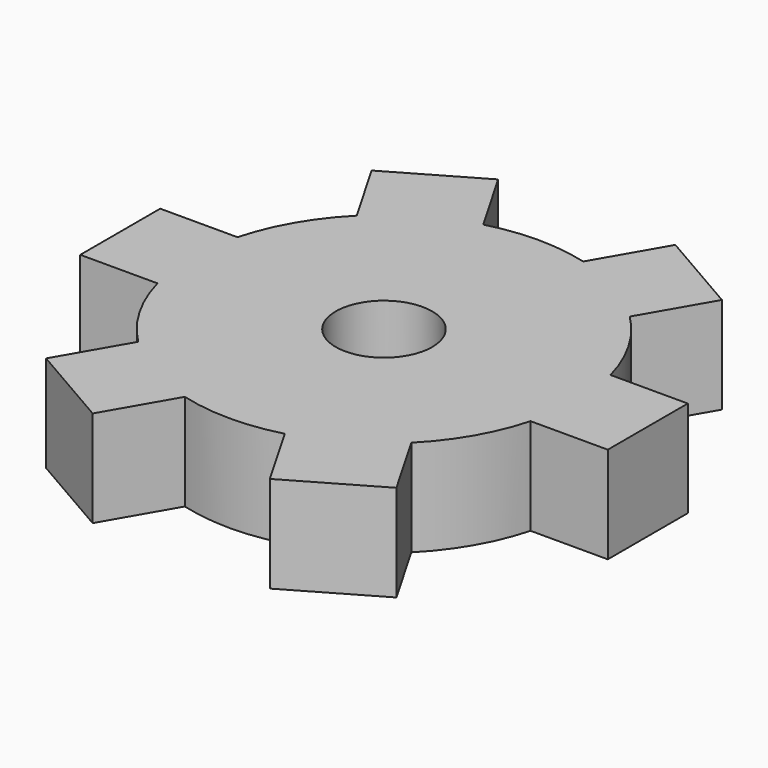
from build123d import *

# Parameters (mm, degrees)
F0_R     = 25.4
F1_DEPTH = 12.7
F3_DEPTH = 12.7
F5_COUNT = 6
F6_R     = 6.35
F7_DEPTH = 12.701


with BuildPart() as f1:
    # F0 (on Top) → F1 (new body)
    with BuildSketch(Plane.XY):
        Circle(F0_R)
    extrude(amount=F1_DEPTH)

    # F2 (on face) → F3 (join)
    with BuildSketch(Plane(origin=(0, 0, 0), x_dir=(1, 0, 0), z_dir=(0, 0, -1))):
        Polygon((24.534516, 6.574004), (0, 0), (24.534516, 0), align=None)
        Polygon((24.534516, 0), (0, 0), (24.534516, -6.574004), align=None)
        Polygon((24.534516, 6.574004), (24.534516, 0), (24.534516, -6.574004), (34.694516, -6.574004), (34.694516, 6.574004), align=None)
    extrude(amount=-F3_DEPTH)

    # F5: F1 ×6 about axis
    f5_axis = Axis((0, 0, 27.185274), (0, 0, 1))


with BuildPart() as f1_1:
    add(f1.part)
    for i in range(1, F5_COUNT):
        add(f1.part.rotate(f5_axis, i * 360 / F5_COUNT))

    # F6 (on face) → F7 (cut, through all)
    with BuildSketch(Plane(origin=(0, 0, 0), x_dir=(1, 0, 0), z_dir=(0, 0, -1))):
        Circle(F6_R)
    extrude(amount=-F7_DEPTH, mode=Mode.SUBTRACT)


solid = f1_1.part
